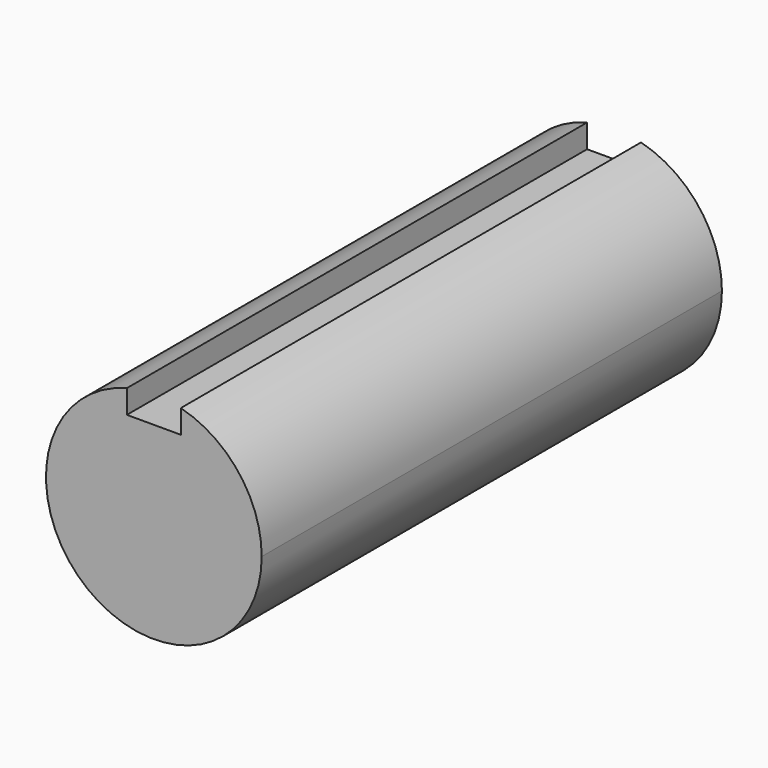
from build123d import *

# Parameters (mm, degrees)
F1_DEPTH = 25.4


with BuildPart() as f1:
    # F0 (on Front) → F1 (new body)
    with BuildSketch(Plane.XZ):
        with BuildLine():
            ThreePointArc((-1.190625, 4.611271), (-2.916424, -3.765087), (4.7625, 0))
            ThreePointArc((4.7625, 0), (3.765087, 2.916424), (1.190625, 4.611271))
            Line((1.190625, 4.611271), (1.190625, 3.571875))
            Line((1.190625, 3.571875), (0, 3.571875))
            Line((0, 3.571875), (-1.190625, 3.571875))
            Line((-1.190625, 3.571875), (-1.190625, 4.611271))
        make_face()
    extrude(amount=-F1_DEPTH)


solid = f1.part
